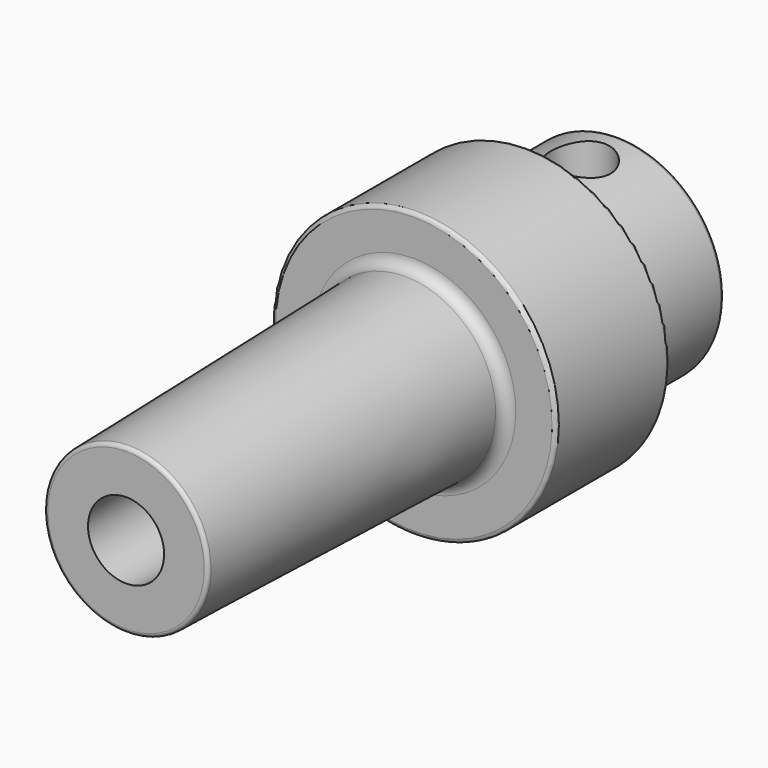
from build123d import *

# Parameters (mm, degrees)
F3_D      = 5.1054
F3_DEPTH  = 22.225
F3_TIP    = 1.5338169022
F4_R      = 0.762
F5_R      = 0.254
F7_D      = 4.0386
F7_DEPTH  = 19.05
F7_TIP    = 1.213317848
F10_R     = 0.762
F11_R     = 0.254
F13_D     = 4.0386
F13_DEPTH = 20.79625
F13_TIP   = 1.213317848


with BuildPart() as f1:
    # F0 (on Right) → F1 (revolve)
    with BuildSketch(Plane.YZ):
        Polygon((-24.13, 0), (19.05, 0), (19.05, 9.525), (0, 9.525), (0, 6.096), (-24.13, 5.4941811878), align=None)
    revolve(axis=Axis((0, -2.54, 0), (0, 1, 0)))

    # F3
    with Locations(Plane.XZ.offset(24.13)):
        with Locations((0, 0)):
            Hole(F3_D / 2, depth=F3_DEPTH)
            with Locations((0, 0, -(F3_DEPTH + F3_TIP / 2))):  # 118° drill point
                Cone(0, F3_D / 2, F3_TIP, mode=Mode.SUBTRACT)

    # F4
    f4_edges = [f1.edges().sort_by_distance(p)[0] for p in [
        (0, 0, -6.096),
    ]]
    fillet(f4_edges, radius=F4_R)

    # F5
    f5_edges = [f1.edges().sort_by_distance(p)[0] for p in [
        (0, 0, -9.525),
        (0, 19.05, -9.525),
        (0, -24.13, -5.494181),
    ]]
    fillet(f5_edges, radius=F5_R)

    # F7
    with Locations(Plane(origin=(0, 19.05, 0), x_dir=(-1, 0, 0), z_dir=(0, 1, 0))):
        with Locations((0, 0)):
            Hole(F7_D / 2, depth=F7_DEPTH)
            with Locations((0, 0, -(F7_DEPTH + F7_TIP / 2))):  # 118° drill point
                Cone(0, F7_D / 2, F7_TIP, mode=Mode.SUBTRACT)

    # F8 (on Right) → F9 (revolve, cut)
    with BuildSketch(Plane.YZ):
        Polygon((19.05, 25.4), (9.525, 25.4), (9.525, 7.112), (16.9969424428, 7.112), (19.05, 3.556), align=None)
    revolve(axis=Axis((0, 5.637592636, 0), (0, -1, 0)), mode=Mode.SUBTRACT)

    # F10
    f10_edges = [f1.edges().sort_by_distance(p)[0] for p in [
        (0, 9.525, -7.112),
    ]]
    fillet(f10_edges, radius=F10_R)

    # F11
    f11_edges = [f1.edges().sort_by_distance(p)[0] for p in [
        (0, 9.525, -9.525),
        (0, 16.996942, -7.112),
        (0, 19.05, -3.556),
    ]]
    fillet(f11_edges, radius=F11_R)

    # F13 (one way)
    with BuildSketch(Plane(origin=(0, 0, 0), x_dir=(1, 0, 0), z_dir=(0, 0, -1))):
        with Locations((0, -13.97)):
            Circle(F13_D / 2)
    extrude(amount=-F13_DEPTH, mode=Mode.SUBTRACT)
    with Locations(Plane(origin=(0, 0, 0), x_dir=(1, 0, 0), z_dir=(0, 0, -1))):
        with Locations((0, -13.97)):
            with Locations((0, 0, -(F13_DEPTH + F13_TIP / 2))):  # 118° drill point
                Cone(0, F13_D / 2, F13_TIP, mode=Mode.SUBTRACT)


solid = f1.part
